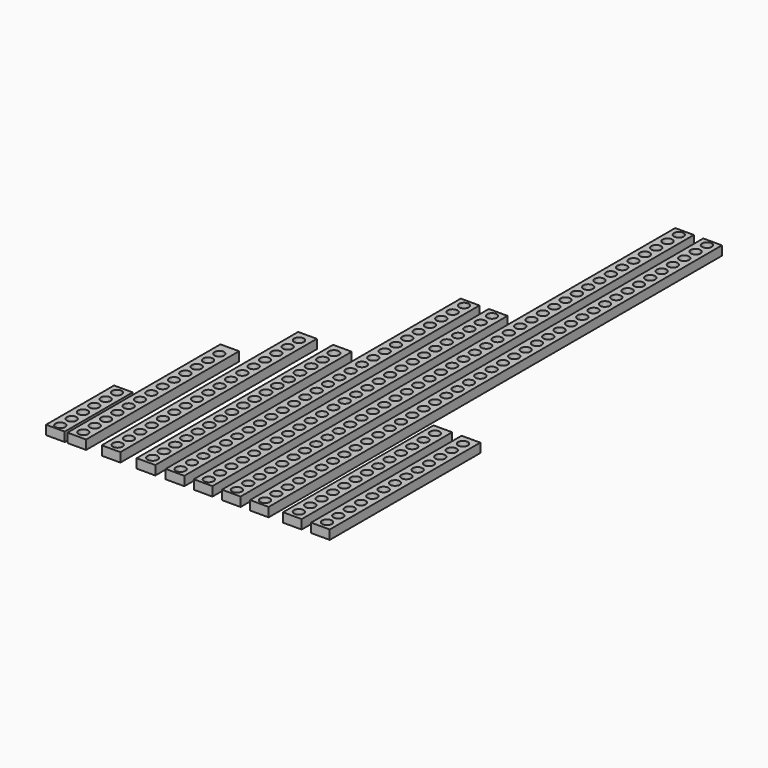
from build123d import *

# Parameters (mm, degrees)
F0_W      = 10.033
F0_H      = 102.87
F0_R      = 2.6035
F1_DEPTH  = 4.953
F2_W      = 10.033
F2_H      = 132.08
F2_R      = 2.6035
F3_DEPTH  = 4.953
F4_W      = 10.033
F4_H      = 132.08
F4_R      = 2.733063
F5_DEPTH  = 4.953
F6_W      = 10.033
F6_H      = 198.4375
F6_R      = 2.6035
F7_DEPTH  = 4.953
F8_W      = 10.033
F8_H      = 304.8
F8_R      = 2.6035
F9_DEPTH  = 4.953
F10_W     = 10.033
F10_H     = 101.219
F10_R     = 2.6035
F11_DEPTH = 4.953
F12_W     = 10.033
F12_H     = 45.72
F12_R     = 2.6035
F13_DEPTH = 4.953


with BuildPart() as f1:
    # F0 (on Top) → F1 (new body)
    with BuildSketch(Plane.XY):
        with Locations((-58.658129, 51.435)):
            Rectangle(F0_W, F0_H)
        with Locations((-58.658129, 4.445)):
            Circle(F0_R, mode=Mode.SUBTRACT)
        with Locations((-58.658129, 12.065)):
            Circle(F0_R, mode=Mode.SUBTRACT)
        with Locations((-58.658129, 19.685)):
            Circle(F0_R, mode=Mode.SUBTRACT)
        with Locations((-58.658129, 27.305)):
            Circle(F0_R, mode=Mode.SUBTRACT)
        with Locations((-58.658129, 34.925)):
            Circle(F0_R, mode=Mode.SUBTRACT)
        with Locations((-58.658129, 42.545)):
            Circle(F0_R, mode=Mode.SUBTRACT)
        with Locations((-58.658129, 50.165)):
            Circle(F0_R, mode=Mode.SUBTRACT)
        with Locations((-58.658129, 57.785)):
            Circle(F0_R, mode=Mode.SUBTRACT)
        with Locations((-58.658129, 65.405)):
            Circle(F0_R, mode=Mode.SUBTRACT)
        with Locations((-58.658129, 73.025)):
            Circle(F0_R, mode=Mode.SUBTRACT)
        with Locations((-58.658129, 80.645)):
            Circle(F0_R, mode=Mode.SUBTRACT)
        with Locations((-58.658129, 88.265)):
            Circle(F0_R, mode=Mode.SUBTRACT)
        with Locations((-58.658129, 95.885)):
            Circle(F0_R, mode=Mode.SUBTRACT)
    extrude(amount=F1_DEPTH)


with BuildPart() as f3:
    # F2 (on Top) → F3 (new body)
    with BuildSketch(Plane.XY):
        with Locations((-40.208848, 66.04)):
            Rectangle(F2_W, F2_H)
        with Locations((-40.208848, 4.445)):
            Circle(F2_R, mode=Mode.SUBTRACT)
        with Locations((-40.208848, 12.065)):
            Circle(F2_R, mode=Mode.SUBTRACT)
        with Locations((-40.208848, 19.685)):
            Circle(F2_R, mode=Mode.SUBTRACT)
        with Locations((-40.208848, 27.305)):
            Circle(F2_R, mode=Mode.SUBTRACT)
        with Locations((-40.208848, 34.925)):
            Circle(F2_R, mode=Mode.SUBTRACT)
        with Locations((-40.208848, 42.545)):
            Circle(F2_R, mode=Mode.SUBTRACT)
        with Locations((-40.208848, 50.165)):
            Circle(F2_R, mode=Mode.SUBTRACT)
        with Locations((-40.208848, 57.785)):
            Circle(F2_R, mode=Mode.SUBTRACT)
        with Locations((-40.208848, 65.405)):
            Circle(F2_R, mode=Mode.SUBTRACT)
        with Locations((-40.208848, 73.025)):
            Circle(F2_R, mode=Mode.SUBTRACT)
        with Locations((-40.208848, 80.645)):
            Circle(F2_R, mode=Mode.SUBTRACT)
        with Locations((-40.208848, 88.265)):
            Circle(F2_R, mode=Mode.SUBTRACT)
        with Locations((-40.208848, 95.885)):
            Circle(F2_R, mode=Mode.SUBTRACT)
        with Locations((-40.208848, 103.505)):
            Circle(F2_R, mode=Mode.SUBTRACT)
        with Locations((-40.208848, 111.125)):
            Circle(F2_R, mode=Mode.SUBTRACT)
        with Locations((-40.208848, 118.745)):
            Circle(F2_R, mode=Mode.SUBTRACT)
        with Locations((-40.208848, 126.365)):
            Circle(F2_R, mode=Mode.SUBTRACT)
    extrude(amount=F3_DEPTH)


with BuildPart() as f5:
    # F4 (on Top) → F5 (new body)
    with BuildSketch(Plane.XY):
        with Locations((-21.422699, 66.04)):
            Rectangle(F4_W, F4_H)
        with Locations((-21.422699, 4.445)):
            Circle(F4_R, mode=Mode.SUBTRACT)
        with Locations((-21.422699, 12.065)):
            Circle(F4_R, mode=Mode.SUBTRACT)
        with Locations((-21.422699, 19.685)):
            Circle(F4_R, mode=Mode.SUBTRACT)
        with Locations((-21.422699, 27.305)):
            Circle(F4_R, mode=Mode.SUBTRACT)
        with Locations((-21.422699, 34.925)):
            Circle(F4_R, mode=Mode.SUBTRACT)
        with Locations((-21.422699, 42.545)):
            Circle(F4_R, mode=Mode.SUBTRACT)
        with Locations((-21.422699, 50.165)):
            Circle(F4_R, mode=Mode.SUBTRACT)
        with Locations((-21.422699, 57.785)):
            Circle(F4_R, mode=Mode.SUBTRACT)
        with Locations((-21.422699, 65.405)):
            Circle(F4_R, mode=Mode.SUBTRACT)
        with Locations((-21.422699, 73.025)):
            Circle(F4_R, mode=Mode.SUBTRACT)
        with Locations((-21.422699, 80.645)):
            Circle(F4_R, mode=Mode.SUBTRACT)
        with Locations((-21.422699, 88.265)):
            Circle(F4_R, mode=Mode.SUBTRACT)
        with Locations((-21.422699, 95.885)):
            Circle(F4_R, mode=Mode.SUBTRACT)
        with Locations((-21.422699, 103.505)):
            Circle(F4_R, mode=Mode.SUBTRACT)
        with Locations((-21.422699, 111.125)):
            Circle(F4_R, mode=Mode.SUBTRACT)
        with Locations((-21.422699, 118.745)):
            Circle(F4_R, mode=Mode.SUBTRACT)
        with Locations((-21.422699, 126.365)):
            Circle(F4_R, mode=Mode.SUBTRACT)
    extrude(amount=F5_DEPTH)


with BuildPart() as f7:
    # F6 (on Top) → F7 (new body)
    with BuildSketch(Plane.XY):
        with Locations((-5.81261, 99.21875)):
            Rectangle(F6_W, F6_H)
        with Locations((-5.81261, 3.81)):
            Circle(F6_R, mode=Mode.SUBTRACT)
        with Locations((-5.81261, 11.43)):
            Circle(F6_R, mode=Mode.SUBTRACT)
        with Locations((-5.81261, 19.05)):
            Circle(F6_R, mode=Mode.SUBTRACT)
        with Locations((-5.81261, 26.67)):
            Circle(F6_R, mode=Mode.SUBTRACT)
        with Locations((-5.81261, 34.29)):
            Circle(F6_R, mode=Mode.SUBTRACT)
        with Locations((-5.81261, 41.91)):
            Circle(F6_R, mode=Mode.SUBTRACT)
        with Locations((-5.81261, 49.53)):
            Circle(F6_R, mode=Mode.SUBTRACT)
        with Locations((-5.81261, 57.15)):
            Circle(F6_R, mode=Mode.SUBTRACT)
        with Locations((-5.81261, 64.77)):
            Circle(F6_R, mode=Mode.SUBTRACT)
        with Locations((-5.81261, 72.39)):
            Circle(F6_R, mode=Mode.SUBTRACT)
        with Locations((-5.81261, 80.01)):
            Circle(F6_R, mode=Mode.SUBTRACT)
        with Locations((-5.81261, 87.63)):
            Circle(F6_R, mode=Mode.SUBTRACT)
        with Locations((-5.81261, 95.25)):
            Circle(F6_R, mode=Mode.SUBTRACT)
        with Locations((-5.81261, 102.87)):
            Circle(F6_R, mode=Mode.SUBTRACT)
        with Locations((-5.81261, 110.49)):
            Circle(F6_R, mode=Mode.SUBTRACT)
        with Locations((-5.81261, 118.11)):
            Circle(F6_R, mode=Mode.SUBTRACT)
        with Locations((-5.81261, 125.73)):
            Circle(F6_R, mode=Mode.SUBTRACT)
        with Locations((-5.81261, 133.35)):
            Circle(F6_R, mode=Mode.SUBTRACT)
        with Locations((-5.81261, 140.97)):
            Circle(F6_R, mode=Mode.SUBTRACT)
        with Locations((-5.81261, 148.59)):
            Circle(F6_R, mode=Mode.SUBTRACT)
        with Locations((-5.81261, 156.21)):
            Circle(F6_R, mode=Mode.SUBTRACT)
        with Locations((-5.81261, 163.83)):
            Circle(F6_R, mode=Mode.SUBTRACT)
        with Locations((-5.81261, 171.45)):
            Circle(F6_R, mode=Mode.SUBTRACT)
        with Locations((-5.81261, 179.07)):
            Circle(F6_R, mode=Mode.SUBTRACT)
        with Locations((-5.81261, 186.69)):
            Circle(F6_R, mode=Mode.SUBTRACT)
        with Locations((-5.81261, 194.31)):
            Circle(F6_R, mode=Mode.SUBTRACT)
        with Locations((9.30039, 99.21875)):
            Rectangle(F6_W, F6_H)
        with Locations((9.30039, 3.81)):
            Circle(F6_R, mode=Mode.SUBTRACT)
        with Locations((9.30039, 11.43)):
            Circle(F6_R, mode=Mode.SUBTRACT)
        with Locations((9.30039, 19.05)):
            Circle(F6_R, mode=Mode.SUBTRACT)
        with Locations((9.30039, 26.67)):
            Circle(F6_R, mode=Mode.SUBTRACT)
        with Locations((9.30039, 34.29)):
            Circle(F6_R, mode=Mode.SUBTRACT)
        with Locations((9.30039, 41.91)):
            Circle(F6_R, mode=Mode.SUBTRACT)
        with Locations((9.30039, 49.53)):
            Circle(F6_R, mode=Mode.SUBTRACT)
        with Locations((9.30039, 57.15)):
            Circle(F6_R, mode=Mode.SUBTRACT)
        with Locations((9.30039, 64.77)):
            Circle(F6_R, mode=Mode.SUBTRACT)
        with Locations((9.30039, 72.39)):
            Circle(F6_R, mode=Mode.SUBTRACT)
        with Locations((9.30039, 80.01)):
            Circle(F6_R, mode=Mode.SUBTRACT)
        with Locations((9.30039, 87.63)):
            Circle(F6_R, mode=Mode.SUBTRACT)
        with Locations((9.30039, 95.25)):
            Circle(F6_R, mode=Mode.SUBTRACT)
        with Locations((9.30039, 102.87)):
            Circle(F6_R, mode=Mode.SUBTRACT)
        with Locations((9.30039, 110.49)):
            Circle(F6_R, mode=Mode.SUBTRACT)
        with Locations((9.30039, 118.11)):
            Circle(F6_R, mode=Mode.SUBTRACT)
        with Locations((9.30039, 125.73)):
            Circle(F6_R, mode=Mode.SUBTRACT)
        with Locations((9.30039, 133.35)):
            Circle(F6_R, mode=Mode.SUBTRACT)
        with Locations((9.30039, 140.97)):
            Circle(F6_R, mode=Mode.SUBTRACT)
        with Locations((9.30039, 148.59)):
            Circle(F6_R, mode=Mode.SUBTRACT)
        with Locations((9.30039, 156.21)):
            Circle(F6_R, mode=Mode.SUBTRACT)
        with Locations((9.30039, 163.83)):
            Circle(F6_R, mode=Mode.SUBTRACT)
        with Locations((9.30039, 171.45)):
            Circle(F6_R, mode=Mode.SUBTRACT)
        with Locations((9.30039, 179.07)):
            Circle(F6_R, mode=Mode.SUBTRACT)
        with Locations((9.30039, 186.69)):
            Circle(F6_R, mode=Mode.SUBTRACT)
        with Locations((9.30039, 194.31)):
            Circle(F6_R, mode=Mode.SUBTRACT)
    extrude(amount=F7_DEPTH)


with BuildPart() as f9:
    # F8 (on Top) → F9 (new body)
    with BuildSketch(Plane.XY):
        with Locations((24.439016, 152.4)):
            Rectangle(F8_W, F8_H)
        with Locations((24.439016, 3.81)):
            Circle(F8_R, mode=Mode.SUBTRACT)
        with Locations((24.439016, 11.43)):
            Circle(F8_R, mode=Mode.SUBTRACT)
        with Locations((24.439016, 19.05)):
            Circle(F8_R, mode=Mode.SUBTRACT)
        with Locations((24.439016, 26.67)):
            Circle(F8_R, mode=Mode.SUBTRACT)
        with Locations((24.439016, 34.29)):
            Circle(F8_R, mode=Mode.SUBTRACT)
        with Locations((24.439016, 41.91)):
            Circle(F8_R, mode=Mode.SUBTRACT)
        with Locations((24.439016, 49.53)):
            Circle(F8_R, mode=Mode.SUBTRACT)
        with Locations((24.439016, 57.15)):
            Circle(F8_R, mode=Mode.SUBTRACT)
        with Locations((24.439016, 64.77)):
            Circle(F8_R, mode=Mode.SUBTRACT)
        with Locations((24.439016, 72.39)):
            Circle(F8_R, mode=Mode.SUBTRACT)
        with Locations((24.439016, 80.01)):
            Circle(F8_R, mode=Mode.SUBTRACT)
        with Locations((24.439016, 87.63)):
            Circle(F8_R, mode=Mode.SUBTRACT)
        with Locations((24.439016, 95.25)):
            Circle(F8_R, mode=Mode.SUBTRACT)
        with Locations((24.439016, 102.87)):
            Circle(F8_R, mode=Mode.SUBTRACT)
        with Locations((24.439016, 110.49)):
            Circle(F8_R, mode=Mode.SUBTRACT)
        with Locations((24.439016, 118.11)):
            Circle(F8_R, mode=Mode.SUBTRACT)
        with Locations((24.439016, 125.73)):
            Circle(F8_R, mode=Mode.SUBTRACT)
        with Locations((24.439016, 133.35)):
            Circle(F8_R, mode=Mode.SUBTRACT)
        with Locations((24.439016, 140.97)):
            Circle(F8_R, mode=Mode.SUBTRACT)
        with Locations((24.439016, 148.59)):
            Circle(F8_R, mode=Mode.SUBTRACT)
        with Locations((24.439016, 156.21)):
            Circle(F8_R, mode=Mode.SUBTRACT)
        with Locations((24.439016, 163.83)):
            Circle(F8_R, mode=Mode.SUBTRACT)
        with Locations((24.439016, 171.45)):
            Circle(F8_R, mode=Mode.SUBTRACT)
        with Locations((24.439016, 179.07)):
            Circle(F8_R, mode=Mode.SUBTRACT)
        with Locations((24.439016, 186.69)):
            Circle(F8_R, mode=Mode.SUBTRACT)
        with Locations((24.439016, 194.31)):
            Circle(F8_R, mode=Mode.SUBTRACT)
        with Locations((24.439016, 201.93)):
            Circle(F8_R, mode=Mode.SUBTRACT)
        with Locations((24.439016, 209.55)):
            Circle(F8_R, mode=Mode.SUBTRACT)
        with Locations((24.439016, 217.17)):
            Circle(F8_R, mode=Mode.SUBTRACT)
        with Locations((24.439016, 224.79)):
            Circle(F8_R, mode=Mode.SUBTRACT)
        with Locations((24.439016, 232.41)):
            Circle(F8_R, mode=Mode.SUBTRACT)
        with Locations((24.439016, 240.03)):
            Circle(F8_R, mode=Mode.SUBTRACT)
        with Locations((24.439016, 247.65)):
            Circle(F8_R, mode=Mode.SUBTRACT)
        with Locations((24.439016, 255.27)):
            Circle(F8_R, mode=Mode.SUBTRACT)
        with Locations((24.439016, 262.89)):
            Circle(F8_R, mode=Mode.SUBTRACT)
        with Locations((24.439016, 270.51)):
            Circle(F8_R, mode=Mode.SUBTRACT)
        with Locations((24.439016, 278.13)):
            Circle(F8_R, mode=Mode.SUBTRACT)
        with Locations((24.439016, 285.75)):
            Circle(F8_R, mode=Mode.SUBTRACT)
        with Locations((24.439016, 293.37)):
            Circle(F8_R, mode=Mode.SUBTRACT)
        with Locations((24.439016, 300.99)):
            Circle(F8_R, mode=Mode.SUBTRACT)
        with Locations((39.552016, 152.4)):
            Rectangle(F8_W, F8_H)
        with Locations((39.552016, 3.81)):
            Circle(F8_R, mode=Mode.SUBTRACT)
        with Locations((39.552016, 11.43)):
            Circle(F8_R, mode=Mode.SUBTRACT)
        with Locations((39.552016, 19.05)):
            Circle(F8_R, mode=Mode.SUBTRACT)
        with Locations((39.552016, 26.67)):
            Circle(F8_R, mode=Mode.SUBTRACT)
        with Locations((39.552016, 34.29)):
            Circle(F8_R, mode=Mode.SUBTRACT)
        with Locations((39.552016, 41.91)):
            Circle(F8_R, mode=Mode.SUBTRACT)
        with Locations((39.552016, 49.53)):
            Circle(F8_R, mode=Mode.SUBTRACT)
        with Locations((39.552016, 57.15)):
            Circle(F8_R, mode=Mode.SUBTRACT)
        with Locations((39.552016, 64.77)):
            Circle(F8_R, mode=Mode.SUBTRACT)
        with Locations((39.552016, 72.39)):
            Circle(F8_R, mode=Mode.SUBTRACT)
        with Locations((39.552016, 80.01)):
            Circle(F8_R, mode=Mode.SUBTRACT)
        with Locations((39.552016, 87.63)):
            Circle(F8_R, mode=Mode.SUBTRACT)
        with Locations((39.552016, 95.25)):
            Circle(F8_R, mode=Mode.SUBTRACT)
        with Locations((39.552016, 102.87)):
            Circle(F8_R, mode=Mode.SUBTRACT)
        with Locations((39.552016, 110.49)):
            Circle(F8_R, mode=Mode.SUBTRACT)
        with Locations((39.552016, 118.11)):
            Circle(F8_R, mode=Mode.SUBTRACT)
        with Locations((39.552016, 125.73)):
            Circle(F8_R, mode=Mode.SUBTRACT)
        with Locations((39.552016, 133.35)):
            Circle(F8_R, mode=Mode.SUBTRACT)
        with Locations((39.552016, 140.97)):
            Circle(F8_R, mode=Mode.SUBTRACT)
        with Locations((39.552016, 148.59)):
            Circle(F8_R, mode=Mode.SUBTRACT)
        with Locations((39.552016, 156.21)):
            Circle(F8_R, mode=Mode.SUBTRACT)
        with Locations((39.552016, 163.83)):
            Circle(F8_R, mode=Mode.SUBTRACT)
        with Locations((39.552016, 171.45)):
            Circle(F8_R, mode=Mode.SUBTRACT)
        with Locations((39.552016, 179.07)):
            Circle(F8_R, mode=Mode.SUBTRACT)
        with Locations((39.552016, 186.69)):
            Circle(F8_R, mode=Mode.SUBTRACT)
        with Locations((39.552016, 194.31)):
            Circle(F8_R, mode=Mode.SUBTRACT)
        with Locations((39.552016, 201.93)):
            Circle(F8_R, mode=Mode.SUBTRACT)
        with Locations((39.552016, 209.55)):
            Circle(F8_R, mode=Mode.SUBTRACT)
        with Locations((39.552016, 217.17)):
            Circle(F8_R, mode=Mode.SUBTRACT)
        with Locations((39.552016, 224.79)):
            Circle(F8_R, mode=Mode.SUBTRACT)
        with Locations((39.552016, 232.41)):
            Circle(F8_R, mode=Mode.SUBTRACT)
        with Locations((39.552016, 240.03)):
            Circle(F8_R, mode=Mode.SUBTRACT)
        with Locations((39.552016, 247.65)):
            Circle(F8_R, mode=Mode.SUBTRACT)
        with Locations((39.552016, 255.27)):
            Circle(F8_R, mode=Mode.SUBTRACT)
        with Locations((39.552016, 262.89)):
            Circle(F8_R, mode=Mode.SUBTRACT)
        with Locations((39.552016, 270.51)):
            Circle(F8_R, mode=Mode.SUBTRACT)
        with Locations((39.552016, 278.13)):
            Circle(F8_R, mode=Mode.SUBTRACT)
        with Locations((39.552016, 285.75)):
            Circle(F8_R, mode=Mode.SUBTRACT)
        with Locations((39.552016, 293.37)):
            Circle(F8_R, mode=Mode.SUBTRACT)
        with Locations((39.552016, 300.99)):
            Circle(F8_R, mode=Mode.SUBTRACT)
    extrude(amount=F9_DEPTH)


with BuildPart() as f11:
    # F10 (on Top) → F11 (new body)
    with BuildSketch(Plane.XY):
        with Locations((57.29576, 50.6095)):
            Rectangle(F10_W, F10_H)
        with Locations((57.29576, 4.445)):
            Circle(F10_R, mode=Mode.SUBTRACT)
        with Locations((57.29576, 12.065)):
            Circle(F10_R, mode=Mode.SUBTRACT)
        with Locations((57.29576, 19.685)):
            Circle(F10_R, mode=Mode.SUBTRACT)
        with Locations((57.29576, 27.305)):
            Circle(F10_R, mode=Mode.SUBTRACT)
        with Locations((57.29576, 34.925)):
            Circle(F10_R, mode=Mode.SUBTRACT)
        with Locations((57.29576, 42.545)):
            Circle(F10_R, mode=Mode.SUBTRACT)
        with Locations((57.29576, 50.165)):
            Circle(F10_R, mode=Mode.SUBTRACT)
        with Locations((57.29576, 57.785)):
            Circle(F10_R, mode=Mode.SUBTRACT)
        with Locations((57.29576, 65.405)):
            Circle(F10_R, mode=Mode.SUBTRACT)
        with Locations((57.29576, 73.025)):
            Circle(F10_R, mode=Mode.SUBTRACT)
        with Locations((57.29576, 80.645)):
            Circle(F10_R, mode=Mode.SUBTRACT)
        with Locations((57.29576, 88.265)):
            Circle(F10_R, mode=Mode.SUBTRACT)
        with Locations((57.29576, 95.885)):
            Circle(F10_R, mode=Mode.SUBTRACT)
        with Locations((72.40876, 50.6095)):
            Rectangle(F10_W, F10_H)
        with Locations((72.40876, 4.445)):
            Circle(F10_R, mode=Mode.SUBTRACT)
        with Locations((72.40876, 12.065)):
            Circle(F10_R, mode=Mode.SUBTRACT)
        with Locations((72.40876, 19.685)):
            Circle(F10_R, mode=Mode.SUBTRACT)
        with Locations((72.40876, 27.305)):
            Circle(F10_R, mode=Mode.SUBTRACT)
        with Locations((72.40876, 34.925)):
            Circle(F10_R, mode=Mode.SUBTRACT)
        with Locations((72.40876, 42.545)):
            Circle(F10_R, mode=Mode.SUBTRACT)
        with Locations((72.40876, 50.165)):
            Circle(F10_R, mode=Mode.SUBTRACT)
        with Locations((72.40876, 57.785)):
            Circle(F10_R, mode=Mode.SUBTRACT)
        with Locations((72.40876, 65.405)):
            Circle(F10_R, mode=Mode.SUBTRACT)
        with Locations((72.40876, 73.025)):
            Circle(F10_R, mode=Mode.SUBTRACT)
        with Locations((72.40876, 80.645)):
            Circle(F10_R, mode=Mode.SUBTRACT)
        with Locations((72.40876, 88.265)):
            Circle(F10_R, mode=Mode.SUBTRACT)
        with Locations((72.40876, 95.885)):
            Circle(F10_R, mode=Mode.SUBTRACT)
    extrude(amount=F11_DEPTH)


with BuildPart() as f13:
    # F12 (on Top) → F13 (new body)
    with BuildSketch(Plane.XY):
        with Locations((-70.158234, 22.86)):
            Rectangle(F12_W, F12_H)
        with Locations((-70.158234, 3.302)):
            Circle(F12_R, mode=Mode.SUBTRACT)
        with Locations((-70.158234, 10.922)):
            Circle(F12_R, mode=Mode.SUBTRACT)
        with Locations((-70.158234, 18.542)):
            Circle(F12_R, mode=Mode.SUBTRACT)
        with Locations((-70.158234, 26.162)):
            Circle(F12_R, mode=Mode.SUBTRACT)
        with Locations((-70.158234, 33.782)):
            Circle(F12_R, mode=Mode.SUBTRACT)
        with Locations((-70.158234, 41.402)):
            Circle(F12_R, mode=Mode.SUBTRACT)
    extrude(amount=F13_DEPTH)


solid = Compound([f1.part, f3.part, f5.part, f7.part, f9.part, f11.part, f13.part])
